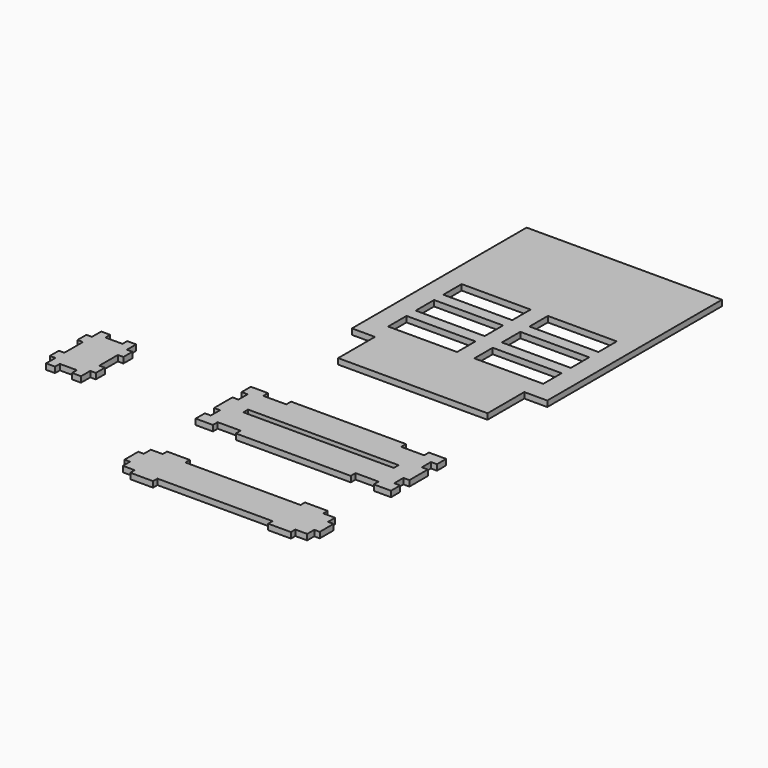
from build123d import *

# Parameters (mm, degrees)
F0_W     = 166.37
F0_H     = 6.604
F1_DEPTH = 6.35
F0_W_2   = 25.146
F0_H_2   = 6.096
F2_DEPTH = 6.35
F0_W_3   = 6.096
F0_H_3   = 12.446
F0_W_4   = 9.906
F3_DEPTH = 6.35
F0_W_5   = 76.2
F0_H_4   = 25.4
F0_W_6   = 165.1
F0_H_5   = 50.8
F4_DEPTH = 6.35


with BuildPart() as f1:
    # F0 (on Top) → F1 (new body)
    with BuildSketch(Plane.XY):
        Polygon((-88.9, 38.1), (-107.95, 38.1), (-107.95, 25.4), (-101.346, 25.4), (-101.346, 12.7), (-107.95, 12.7), (-107.95, -12.7), (-101.346, -12.7), (-101.346, -25.4), (-107.95, -25.4), (-107.95, -38.1), (-88.9, -38.1), (-88.9, -31.496), (-63.5, -31.496), (-63.5, -38.1), (63.5, -38.1), (63.5, -31.496), (88.9, -31.496), (88.9, -38.1), (107.95, -38.1), (107.95, -25.4), (101.346, -25.4), (101.346, -12.7), (107.95, -12.7), (107.95, 12.7), (101.346, 12.7), (101.346, 25.4), (107.95, 25.4), (107.95, 38.1), (88.9, 38.1), (88.9, 31.496), (63.5, 31.496), (63.5, 38.1), (-63.5, 38.1), (-63.5, 31.496), (-88.9, 31.496), align=None)
        Rectangle(F0_W, F0_H, mode=Mode.SUBTRACT)
    extrude(amount=F1_DEPTH)


with BuildPart() as f2:
    # F0 (on Top) → F2 (new body)
    with BuildSketch(Plane.XY):
        with Locations((-76.2, -104.648)):
            Rectangle(F0_W_2, F0_H_2)
        with Locations((-76.2, -149.352)):
            Rectangle(F0_W_2, F0_H_2)
        with Locations((76.2, -149.352)):
            Rectangle(F0_W_2, F0_H_2)
        with Locations((76.2, -104.648)):
            Rectangle(F0_W_2, F0_H_2)
        Polygon((-88.773, -107.696), (-101.854, -107.696), (-101.854, -117.475), (-107.95, -117.475), (-107.95, -136.525), (-101.854, -136.525), (-101.854, -146.304), (-88.773, -146.304), (-63.627, -146.304), (63.627, -146.304), (88.773, -146.304), (101.854, -146.304), (101.854, -136.525), (107.95, -136.525), (107.95, -117.475), (101.854, -117.475), (101.854, -107.696), (88.773, -107.696), (63.627, -107.696), (-63.627, -107.696), align=None)
    extrude(amount=F2_DEPTH)


with BuildPart() as f3:
    # F0 (on Top) → F3 (new body)
    with BuildSketch(Plane.XY):
        with Locations((-231.648, 19.05)):
            Rectangle(F0_W_3, F0_H_3)
        with Locations((-231.648, -19.05)):
            Rectangle(F0_W_3, F0_H_3)
        with Locations((-276.352, -19.05)):
            Rectangle(F0_W_3, F0_H_3)
        with Locations((-276.352, 19.05)):
            Rectangle(F0_W_3, F0_H_3)
        Polygon((-263.398, 31.496), (-273.304, 31.496), (-273.304, 25.273), (-273.304, 12.827), (-273.304, -12.827), (-273.304, -25.273), (-273.304, -31.496), (-263.398, -31.496), (-244.602, -31.496), (-234.696, -31.496), (-234.696, -25.273), (-234.696, -12.827), (-234.696, 12.827), (-234.696, 25.273), (-234.696, 31.496), (-244.602, 31.496), align=None)
        with Locations((-239.649, 34.798)):
            Rectangle(F0_W_4, F0_H)
        with Locations((-268.351, 34.798)):
            Rectangle(F0_W_4, F0_H)
        with Locations((-268.351, -34.798)):
            Rectangle(F0_W_4, F0_H)
        with Locations((-239.649, -34.798)):
            Rectangle(F0_W_4, F0_H)
    extrude(amount=F3_DEPTH)


with BuildPart() as f4:
    # F0 (on Top) → F4 (new body)
    with BuildSketch(Plane.XY):
        Polygon((107.95, 419.1), (-107.95, 419.1), (-107.95, 177.8), (-82.55, 177.8), (82.55, 177.8), (107.95, 177.8), align=None)
        with Locations((-47.625, 212.725)):
            Rectangle(F0_W_5, F0_H_4, mode=Mode.SUBTRACT)
        with Locations((-47.625, 250.825)):
            Rectangle(F0_W_5, F0_H_4, mode=Mode.SUBTRACT)
        with Locations((47.625, 212.725)):
            Rectangle(F0_W_5, F0_H_4, mode=Mode.SUBTRACT)
        with Locations((47.625, 250.825)):
            Rectangle(F0_W_5, F0_H_4, mode=Mode.SUBTRACT)
        with Locations((-47.625, 288.925)):
            Rectangle(F0_W_5, F0_H_4, mode=Mode.SUBTRACT)
        with Locations((47.625, 288.925)):
            Rectangle(F0_W_5, F0_H_4, mode=Mode.SUBTRACT)
        with Locations((0, 152.4)):
            Rectangle(F0_W_6, F0_H_5)
    extrude(amount=F4_DEPTH)


solid = Compound([f1.part, f2.part, f3.part, f4.part])
